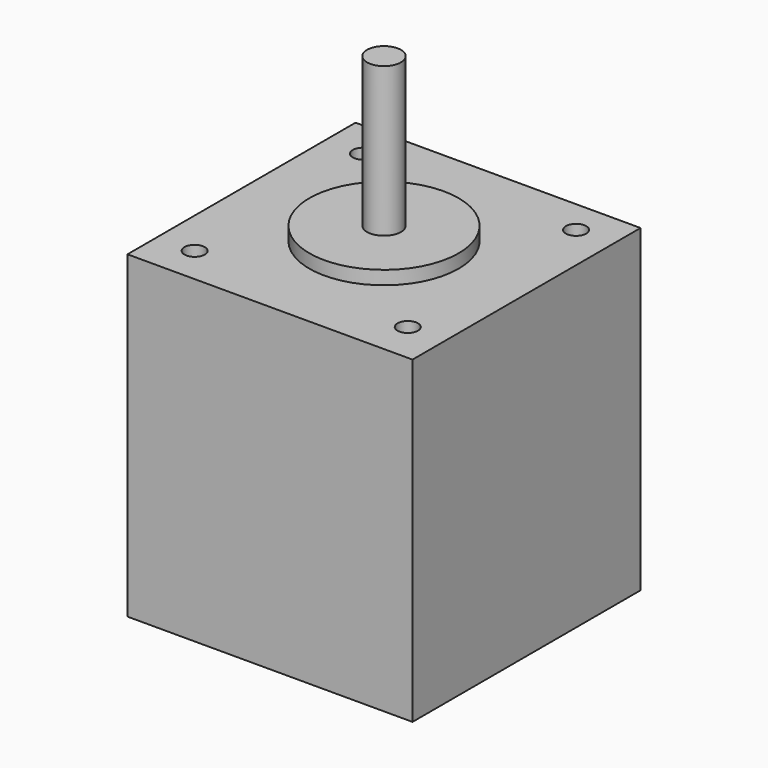
from build123d import *

# Parameters (mm, degrees)
SKETCH_W     = 42
SKETCH_H     = 42
PAD_DEPTH    = 47
SKETCH001_R  = 1.5
POCKET_DEPTH = 4.5
SKETCH002_R  = 11
PAD001_DEPTH = 2
SKETCH003_R  = 2.5
PAD002_DEPTH = 22


with BuildPart() as part:
    # Sketch → Pad (new body)
    with BuildSketch(Plane.XY):
        Rectangle(SKETCH_W, SKETCH_H)
    extrude(amount=PAD_DEPTH)

    # Sketch001 (on Face6 of Pad) → Pocket (cut)
    with BuildSketch(Plane.XY.offset(47)):
        with Locations((-15.5, 15.5)):
            Circle(SKETCH001_R)
        with Locations((15.5, 16)):
            Circle(SKETCH001_R)
        with Locations((15.5, -15)):
            Circle(SKETCH001_R)
        with Locations((-15.5, -15.5)):
            Circle(SKETCH001_R)
    extrude(amount=-POCKET_DEPTH, mode=Mode.SUBTRACT)

    # Sketch002 (on Face5 of Pocket) → Pad001 (join)
    with BuildSketch(Plane.XY.offset(47)):
        Circle(SKETCH002_R)
    extrude(amount=PAD001_DEPTH)

    # Sketch003 (on Face13 of Pad001) → Pad002 (join)
    with BuildSketch(Plane.XY.offset(49)):
        Circle(SKETCH003_R)
    extrude(amount=PAD002_DEPTH)


solid = part.part
